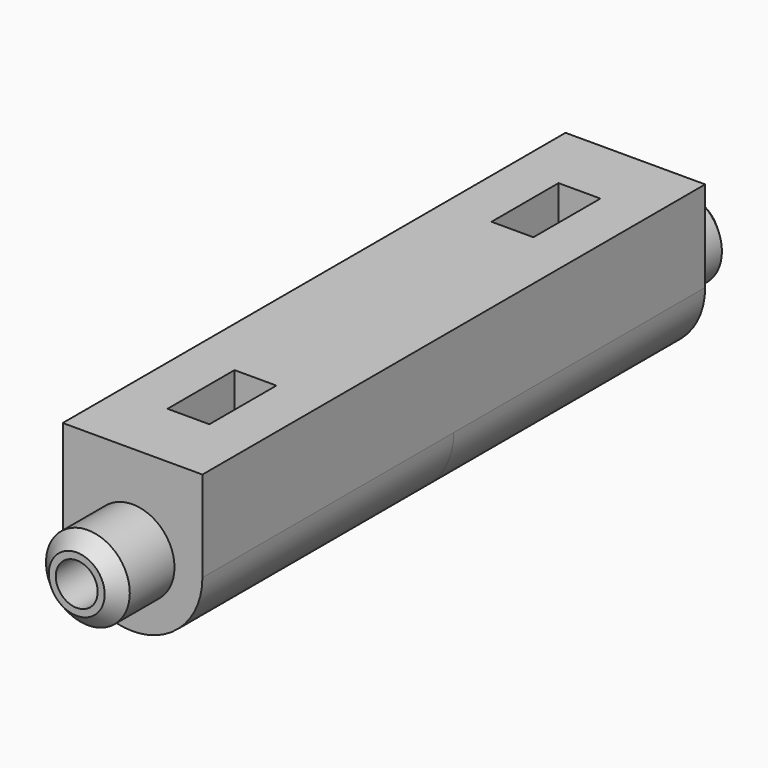
from build123d import *

# Parameters (mm, degrees)
F0_R     = 3
F0_R_2   = 1.5
F1_DEPTH = 22.5
F2_DEPTH = 10
F3_R     = 3
F3_R_2   = 1.5
F4_DEPTH = 5
F5_SIZE  = 1
F6_W     = 3
F6_H     = 6
F7_DEPTH = 6.5


with BuildPart() as f1:
    # F0 (on Front) → F1 (new body)
    with BuildSketch(Plane.XZ):
        with BuildLine():
            Line((5, 0), (5, 6.5))
            Line((5, 6.5), (-5, 6.5))
            Line((-5, 6.5), (-5, 1.3228756555))
            ThreePointArc((-5, 1.3228756555), (-4.5029510677, 0.1086073746), (-4.8653846154, -1.1524029436))
            ThreePointArc((-4.8653846154, -1.1524029436), (-4.8296291314, -1.2940952255), (-4.7897481479, -1.4346820832))
            ThreePointArc((-4.7897481479, -1.4346820832), (-3.897114317, -2.25), (-3.6373452043, -3.4307025322))
            ThreePointArc((-3.6373452043, -3.4307025322), (-3.5355339059, -3.5355339059), (-3.4307025322, -3.6373452043))
            ThreePointArc((-3.4307025322, -3.6373452043), (-2.25, -3.897114317), (-1.4346820832, -4.7897481479))
            ThreePointArc((-1.4346820832, -4.7897481479), (-1.2940952255, -4.8296291314), (-1.1524029436, -4.8653846154))
            ThreePointArc((-1.1524029436, -4.8653846154), (0, -4.5), (1.1524029436, -4.8653846154))
            ThreePointArc((1.1524029436, -4.8653846154), (3.921862741, -3.1014500868), (5, 0))
        make_face()
        Circle(F0_R, mode=Mode.SUBTRACT)
        Circle(F0_R)
        Circle(F0_R_2, mode=Mode.SUBTRACT)
    extrude(amount=F1_DEPTH)

    # F0 (on Front) → F2 (join)
    with BuildSketch(Plane.XZ):
        with BuildLine():
            ThreePointArc((-4.8653846154, -1.1524029436), (-4.5029510677, 0.1086073746), (-5, 1.3228756555))
            Line((-5, 1.3228756555), (-5, 0))
            ThreePointArc((-5, 0), (-4.9662321269, -0.5801193511), (-4.8653846154, -1.1524029436))
        make_face()
        with BuildLine():
            ThreePointArc((-3.6373452043, -3.4307025322), (-3.897114317, -2.25), (-4.7897481479, -1.4346820832))
            ThreePointArc((-4.7897481479, -1.4346820832), (-4.3301270189, -2.5), (-3.6373452043, -3.4307025322))
        make_face()
        with BuildLine():
            ThreePointArc((-3.4307025322, -3.6373452043), (-2.5, -4.3301270189), (-1.4346820832, -4.7897481479))
            ThreePointArc((-1.4346820832, -4.7897481479), (-2.25, -3.897114317), (-3.4307025322, -3.6373452043))
        make_face()
        with BuildLine():
            ThreePointArc((-1.1524029436, -4.8653846154), (0, -5), (1.1524029436, -4.8653846154))
            ThreePointArc((1.1524029436, -4.8653846154), (0, -4.5), (-1.1524029436, -4.8653846154))
        make_face()
    extrude(amount=F2_DEPTH)

    # F3 (on face) → F4 (join)
    with BuildSketch(Plane.XZ):
        Circle(F3_R)
        Circle(F3_R_2, mode=Mode.SUBTRACT)
    extrude(amount=-F4_DEPTH)

    # F5
    f5_edges = [f1.edges().sort_by_distance(p)[0] for p in [
        (-3, 5, 0),
    ]]
    chamfer(f5_edges, length=F5_SIZE)

    # F6 (on face) → F7 (cut, through all)
    with BuildSketch(Plane.XY.offset(6.5)):
        with Locations((0, -8)):
            Rectangle(F6_W, F6_H)
    extrude(amount=-F7_DEPTH, mode=Mode.SUBTRACT)

    # F8: F1 across face


with BuildPart() as f1_1:
    add(f1.part)
    add(f1.part.mirror(Plane(origin=(0.0969972457, -22.5, 1.4535836906), x_dir=(1, 0, 0), z_dir=(0, -1, 0))))


solid = f1_1.part
